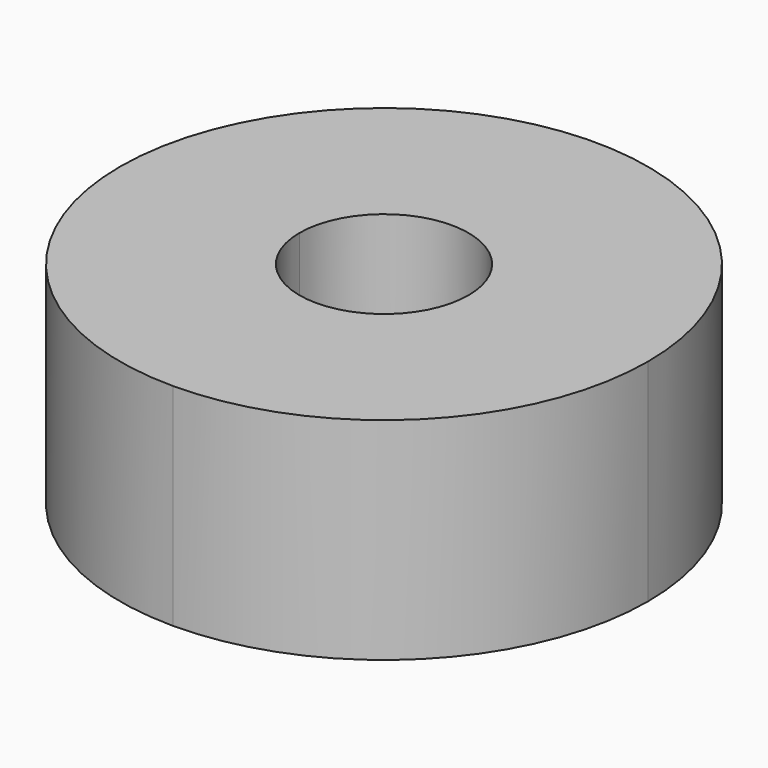
from build123d import *

# Parameters (mm, degrees)
F1_DEPTH = 10


with BuildPart() as f1:
    # F0 (on Top) → F1 (new body)
    with BuildSketch(Plane.XY):
        with BuildLine():
            Line((3.8890872965, 3.8890872965), (3.1819805153, 3.1819805153))
            ThreePointArc((3.1819805153, 3.1819805153), (4.1574578963, 1.7220754456), (4.5, 0))
            ThreePointArc((4.5, 0), (3.1819805153, -3.1819805153), (0, -4.5))
            Line((0, -4.5), (0, -5.5))
            ThreePointArc((0, -5.5), (3.8890872965, -3.8890872965), (5.5, 0))
            ThreePointArc((5.5, 0), (5.0813374288, 2.104758878), (3.8890872965, 3.8890872965))
        make_face()
        with BuildLine():
            Line((4.5961940777, 4.5961940777), (3.8890872965, 3.8890872965))
            ThreePointArc((3.8890872965, 3.8890872965), (5.0813374288, 2.104758878), (5.5, 0))
            ThreePointArc((5.5, 0), (3.8890872965, -3.8890872965), (0, -5.5))
            Line((0, -5.5), (0, -6.5))
            ThreePointArc((0, -6.5), (4.5961940777, -4.5961940777), (6.5, 0))
            ThreePointArc((6.5, 0), (6.0052169613, 2.4874423104), (4.5961940777, 4.5961940777))
        make_face()
        with BuildLine():
            Line((5.6568542495, 5.6568542495), (4.5961940777, 4.5961940777))
            ThreePointArc((4.5961940777, 4.5961940777), (6.0052169613, 2.4874423104), (6.5, 0))
            ThreePointArc((6.5, 0), (4.5961940777, -4.5961940777), (0, -6.5))
            Line((0, -6.5), (0, -8))
            ThreePointArc((0, -8), (5.6568542495, -5.6568542495), (8, 0))
            ThreePointArc((8, 0), (7.3910362601, 3.0614674589), (5.6568542495, 5.6568542495))
        make_face()
        with BuildLine():
            Line((6.3639610307, 6.3639610307), (5.6568542495, 5.6568542495))
            ThreePointArc((5.6568542495, 5.6568542495), (7.3910362601, 3.0614674589), (8, 0))
            ThreePointArc((8, 0), (5.6568542495, -5.6568542495), (0, -8))
            Line((0, -8), (0, -9))
            ThreePointArc((0, -9), (6.3639610307, -6.3639610307), (9, 0))
            ThreePointArc((9, 0), (8.3149157926, 3.4441508913), (6.3639610307, 6.3639610307))
        make_face()
        with BuildLine():
            Line((8.8388347648, 8.8388347648), (7.4246212025, 7.4246212025))
            ThreePointArc((7.4246212025, 7.4246212025), (9.7007350914, 4.0181760398), (10.5, 0))
            ThreePointArc((10.5, 0), (7.4246212025, -7.4246212025), (0, -10.5))
            Line((0, -10.5), (0, -12.5))
            ThreePointArc((0, -12.5), (8.8388347648, -8.8388347648), (12.5, 0))
            ThreePointArc((12.5, 0), (11.5484941564, 4.7835429046), (8.8388347648, 8.8388347648))
        make_face()
        with BuildLine():
            ThreePointArc((-10.5, 0), (-4.0181760398, 9.7007350914), (7.4246212025, 7.4246212025))
            Line((7.4246212025, 7.4246212025), (8.8388347648, 8.8388347648))
            ThreePointArc((8.8388347648, 8.8388347648), (-4.7835429046, 11.5484941564), (-12.5, 0))
            Line((-12.5, 0), (-10.5, 0))
        make_face()
        with BuildLine():
            ThreePointArc((-9, 0), (-3.4441508913, 8.3149157926), (6.3639610307, 6.3639610307))
            Line((6.3639610307, 6.3639610307), (7.4246212025, 7.4246212025))
            ThreePointArc((7.4246212025, 7.4246212025), (-4.0181760398, 9.7007350914), (-10.5, 0))
            Line((-10.5, 0), (-9, 0))
        make_face()
        with BuildLine():
            ThreePointArc((-8, 0), (-3.0614674589, 7.3910362601), (5.6568542495, 5.6568542495))
            Line((5.6568542495, 5.6568542495), (6.3639610307, 6.3639610307))
            ThreePointArc((6.3639610307, 6.3639610307), (-3.4441508913, 8.3149157926), (-9, 0))
            Line((-9, 0), (-8, 0))
        make_face()
        with BuildLine():
            ThreePointArc((-6.5, 0), (-2.4874423104, 6.0052169613), (4.5961940777, 4.5961940777))
            Line((4.5961940777, 4.5961940777), (5.6568542495, 5.6568542495))
            ThreePointArc((5.6568542495, 5.6568542495), (-3.0614674589, 7.3910362601), (-8, 0))
            Line((-8, 0), (-6.5, 0))
        make_face()
        with BuildLine():
            Line((7.4246212025, 7.4246212025), (6.3639610307, 6.3639610307))
            ThreePointArc((6.3639610307, 6.3639610307), (8.3149157926, 3.4441508913), (9, 0))
            ThreePointArc((9, 0), (6.3639610307, -6.3639610307), (0, -9))
            Line((0, -9), (0, -10.5))
            ThreePointArc((0, -10.5), (7.4246212025, -7.4246212025), (10.5, 0))
            ThreePointArc((10.5, 0), (9.7007350914, 4.0181760398), (7.4246212025, 7.4246212025))
        make_face()
        with BuildLine():
            ThreePointArc((-4.5, 0), (-1.7220754456, 4.1574578963), (3.1819805153, 3.1819805153))
            Line((3.1819805153, 3.1819805153), (3.8890872965, 3.8890872965))
            ThreePointArc((3.8890872965, 3.8890872965), (-2.104758878, 5.0813374288), (-5.5, 0))
            Line((-5.5, 0), (-4.5, 0))
        make_face()
        with BuildLine():
            ThreePointArc((-5.5, 0), (-2.104758878, 5.0813374288), (3.8890872965, 3.8890872965))
            Line((3.8890872965, 3.8890872965), (4.5961940777, 4.5961940777))
            ThreePointArc((4.5961940777, 4.5961940777), (-2.4874423104, 6.0052169613), (-6.5, 0))
            Line((-6.5, 0), (-5.5, 0))
        make_face()
        with BuildLine():
            ThreePointArc((2.8284271247, 2.8284271247), (3.69551813, 1.5307337295), (4, 0))
            ThreePointArc((4, 0), (2.8284271247, -2.8284271247), (0, -4))
            Line((0, -4), (0, -4.5))
            ThreePointArc((0, -4.5), (3.1819805153, -3.1819805153), (4.5, 0))
            ThreePointArc((4.5, 0), (4.1574578963, 1.7220754456), (3.1819805153, 3.1819805153))
            Line((3.1819805153, 3.1819805153), (2.8284271247, 2.8284271247))
        make_face()
        with BuildLine():
            ThreePointArc((-4, 0), (-1.5307337295, 3.69551813), (2.8284271247, 2.8284271247))
            Line((2.8284271247, 2.8284271247), (3.1819805153, 3.1819805153))
            ThreePointArc((3.1819805153, 3.1819805153), (-1.7220754456, 4.1574578963), (-4.5, 0))
            Line((-4.5, 0), (-4, 0))
        make_face()
        with BuildLine():
            Line((0, -4.5), (0, -4))
            ThreePointArc((0, -4), (-2.8284271247, -2.8284271247), (-4, 0))
            Line((-4, 0), (-4.5, 0))
            ThreePointArc((-4.5, 0), (-3.1819805153, -3.1819805153), (0, -4.5))
        make_face()
        with BuildLine():
            Line((0, -5.5), (0, -4.5))
            ThreePointArc((0, -4.5), (-3.1819805153, -3.1819805153), (-4.5, 0))
            Line((-4.5, 0), (-5.5, 0))
            ThreePointArc((-5.5, 0), (-3.8890872965, -3.8890872965), (0, -5.5))
        make_face()
        with BuildLine():
            Line((0, -6.5), (0, -5.5))
            ThreePointArc((0, -5.5), (-3.8890872965, -3.8890872965), (-5.5, 0))
            Line((-5.5, 0), (-6.5, 0))
            ThreePointArc((-6.5, 0), (-4.5961940777, -4.5961940777), (0, -6.5))
        make_face()
        with BuildLine():
            Line((0, -8), (0, -6.5))
            ThreePointArc((0, -6.5), (-4.5961940777, -4.5961940777), (-6.5, 0))
            Line((-6.5, 0), (-8, 0))
            ThreePointArc((-8, 0), (-5.6568542495, -5.6568542495), (0, -8))
        make_face()
        with BuildLine():
            Line((0, -9), (0, -8))
            ThreePointArc((0, -8), (-5.6568542495, -5.6568542495), (-8, 0))
            Line((-8, 0), (-9, 0))
            ThreePointArc((-9, 0), (-6.3639610307, -6.3639610307), (0, -9))
        make_face()
        with BuildLine():
            Line((0, -10.5), (0, -9))
            ThreePointArc((0, -9), (-6.3639610307, -6.3639610307), (-9, 0))
            Line((-9, 0), (-10.5, 0))
            ThreePointArc((-10.5, 0), (-7.4246212025, -7.4246212025), (0, -10.5))
        make_face()
        with BuildLine():
            Line((0, -12.5), (0, -10.5))
            ThreePointArc((0, -10.5), (-7.4246212025, -7.4246212025), (-10.5, 0))
            Line((-10.5, 0), (-12.5, 0))
            ThreePointArc((-12.5, 0), (-8.8388347648, -8.8388347648), (0, -12.5))
        make_face()
    extrude(amount=-F1_DEPTH)


solid = f1.part
